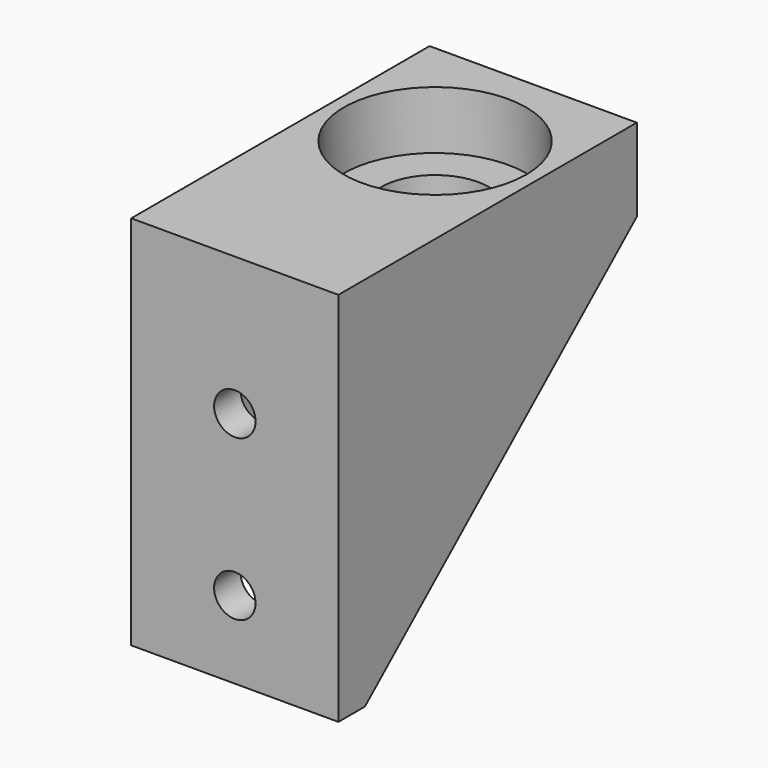
from build123d import *

# Parameters (mm, degrees)
SKETCH_W        = 25
SKETCH_H        = 45
PAD_DEPTH       = 10
SKETCH001_R     = 11
POCKET_DEPTH    = 7
PAD001_DEPTH    = 3
SKETCH005_W     = 4
SKETCH005_H     = 45.367283
PAD002_DEPTH    = 25
SKETCH003_R     = 6.5
POCKET001_DEPTH = 5
SKETCH007_R     = 2.5
POCKET002_DEPTH = 5


with BuildPart() as part:
    # Sketch → Pad (new body)
    with BuildSketch(Plane.XY):
        with Locations((0, -0.515162)):
            Rectangle(SKETCH_W, SKETCH_H)
    extrude(amount=PAD_DEPTH)

    # Sketch001 (on Face6 of Pad) → Pocket (cut)
    with BuildSketch(Plane.XY.offset(10)):
        with Locations((0, 7.184838)):
            Circle(SKETCH001_R)
    extrude(amount=-POCKET_DEPTH, mode=Mode.SUBTRACT)

    # Sketch004 (on Face3 of Pocket) → Pad001 (join)
    with BuildSketch(Plane.YZ.offset(12.5)):
        Polygon((-23.015162, 0), (21.984838, 0), (-19.015162, -35.367283), (-23.015162, -35.367283), align=None)
    pad001 = extrude(amount=-PAD001_DEPTH)

    # Sketch005 (on Face8 of Pad001) → Pad002 (join)
    with BuildSketch(Plane.YZ.offset(12.5)):
        with Locations((-21.015162, -12.683642)):
            Rectangle(SKETCH005_W, SKETCH005_H)
    extrude(amount=-PAD002_DEPTH)

    # Mirrored: Pad001 across YZ
    add(pad001.mirror(Plane.YZ))

    # Sketch003 (on Face8 of Pocket) → Pocket001 (cut)
    with BuildSketch(Plane.XY.offset(3)):
        with Locations((0, 7.184838)):
            Circle(SKETCH003_R)
    extrude(amount=-POCKET001_DEPTH, mode=Mode.SUBTRACT)

    # Sketch007 (on Face15 of Pocket001) → Pocket002 (cut)
    with BuildSketch(Plane(origin=(0, -19.015162, 0), x_dir=(-1, 0, 0), z_dir=(0, 1, 0))):
        with Locations((0, -6.689823)):
            Circle(SKETCH007_R)
        with Locations((0, -26.003223)):
            Circle(SKETCH007_R)
    extrude(amount=-POCKET002_DEPTH, mode=Mode.SUBTRACT)


solid = part.part
